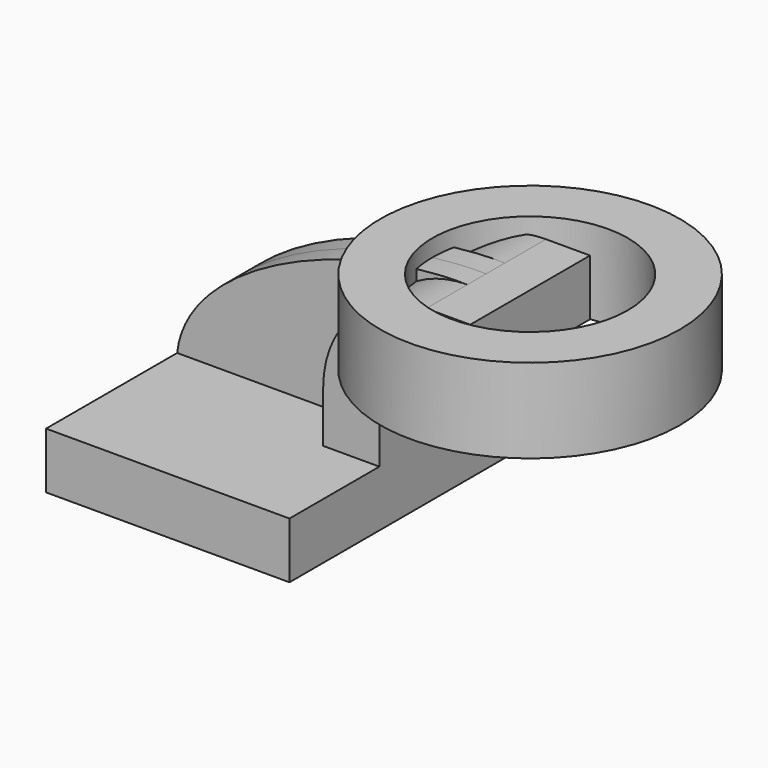
from build123d import *

# Parameters (mm, degrees)
F1_DEPTH = 63.5
F2_DEPTH = 25.4
F3_DEPTH = 7.9375


with BuildPart() as f1:
    # F0 (on Front) → F1 (new body, symmetric)
    with BuildSketch(Plane.XZ):
        Polygon((-41.275, 9.525), (-41.275, -9.525), (41.275, -9.525), (41.275, 9.525), (22.225, 9.525), align=None)
    extrude(amount=F1_DEPTH, both=True)

    # F0 (on Front) → F2 (join, symmetric)
    with BuildSketch(Plane.XZ):
        with BuildLine():
            Line((22.225, 9.525), (41.275, 9.525))
            Line((41.275, 9.525), (41.275, 27.0002))
            ThreePointArc((41.275, 27.0002), (45.92468, 38.22552), (57.15, 42.8752))
            Line((57.15, 42.8752), (72.076506, 42.8752))
            Line((72.076506, 42.8752), (72.076506, 61.9252))
            Line((72.076506, 61.9252), (57.15, 61.9252))
            ThreePointArc((57.15, 61.9252), (32.454296, 51.695904), (22.225, 27.0002))
            Line((22.225, 27.0002), (22.225, 9.525))
        make_face()
    extrude(amount=F2_DEPTH, both=True)

    # F0 (on Front) → F3 (join, symmetric)
    with BuildSketch(Plane.XZ):
        with BuildLine():
            add(Edge.make_bspline(
                [(-41.275, 9.525), (-38.149111, 39.227815), (15.005312, 62.741945), (57.15, 61.9252)],
                knots=[0, 0, 0, 0, 111.504536, 111.504536, 111.504536, 111.504536], degree=3))
            Line((-41.275, 9.525), (22.225, 9.525))
            Line((22.225, 9.525), (22.225, 27.0002))
            ThreePointArc((22.225, 27.0002), (32.454296, 51.695904), (57.15, 61.9252))
        make_face()
    extrude(amount=F3_DEPTH, both=True)

    # F0 (on Front) → F4 (revolve)
    with BuildSketch(Plane.XZ):
        Polygon((105.234338, 66.675), (105.234338, 61.9252), (105.234338, 42.8752), (105.234338, 38.1), (122.876506, 38.1), (122.876506, 66.675), align=None)
    revolve(axis=Axis((72.076506, 0, 52.3875), (0, 0, 1)))


solid = f1.part
